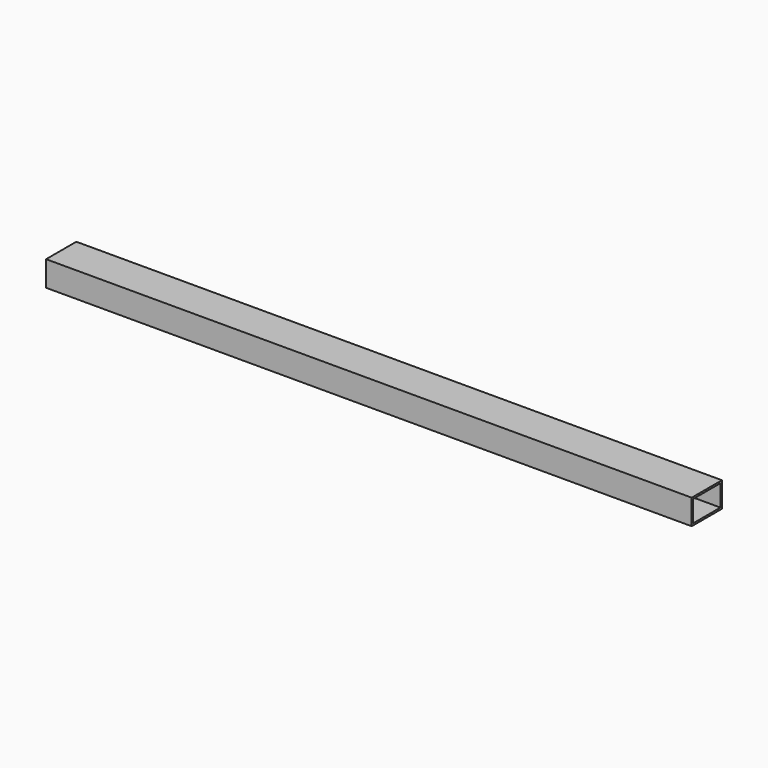
from build123d import *

# Parameters (mm, degrees)
F0_W     = 1025
F0_H     = 60
F1_DEPTH = 40
F2_T     = -3


with BuildPart() as f1:
    # F0 (on Top) → F1 (new body)
    with BuildSketch(Plane.XY):
        Rectangle(F0_W, F0_H)
    extrude(amount=F1_DEPTH)

    # F2
    f2_openings = [f1.faces().sort_by_distance(p)[0] for p in [
        (-512.5, 0, 20),
        (512.5, 0, 20),
    ]]
    offset(amount=F2_T, openings=f2_openings)


solid = f1.part
